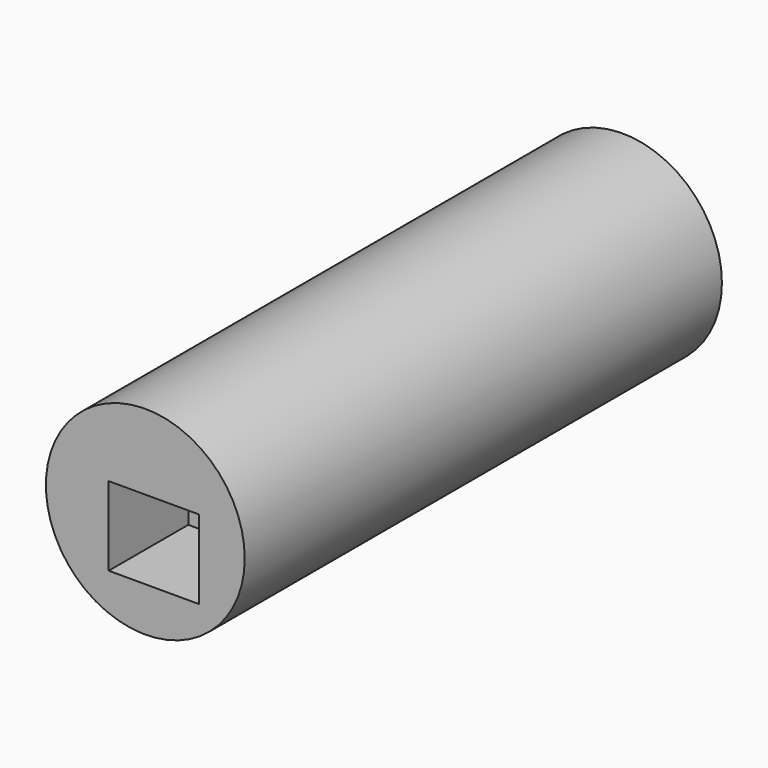
from build123d import *

# Parameters (mm, degrees)
F0_R     = 25
F1_DEPTH = 100
F2_DEPTH = 25
F3_R     = 25
F3_W     = 22.6668892428
F3_H     = 19.8441343382
F4_DEPTH = 25


with BuildPart() as f1:
    # F0 (on Front) → F1 (new body)
    with BuildSketch(Plane.XZ):
        Circle(F0_R)
    extrude(amount=F1_DEPTH)

    # F2 (add): a face of the model
    f2_faces = [f1.faces().sort_by_distance(p)[0] for p in [
        (0, -100, 0),
    ]]
    extrude(f2_faces, amount=F2_DEPTH)

    # F3 (on face) → F4 (join)
    with BuildSketch(Plane.XZ.offset(125)):
        Circle(F3_R)
        with Locations((2.1329852752, -3.9242249914)):
            Rectangle(F3_W, F3_H, mode=Mode.SUBTRACT)
    extrude(amount=F4_DEPTH)


solid = f1.part
